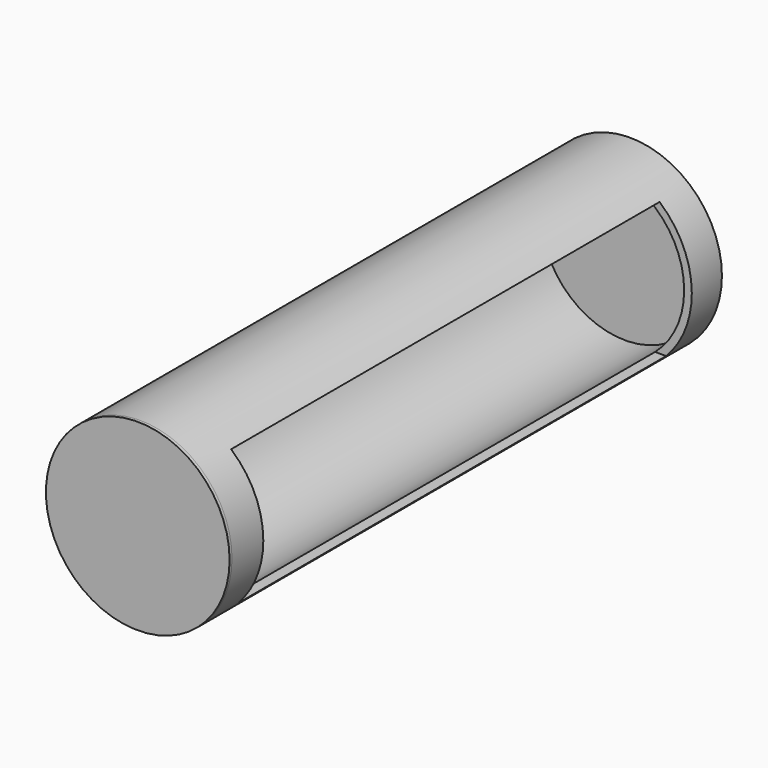
from build123d import *

# Parameters (mm, degrees)
F0_R      = 30
F1_DEPTH  = 200
F2_R      = 27.5
F3_DEPTH  = 200
F4_R      = 30
F5_DEPTH  = 2
F6_R      = 30
F6_R_2    = 27.5
F7_DEPTH  = 1
F8_W      = 20
F8_H      = 20
F9_DEPTH  = 67.5
F10_W     = 174.9420631677
F10_H     = 43.6072610319
F11_DEPTH = 173


with BuildPart() as f1:
    # F0 (on Front) → F1 (new body)
    with BuildSketch(Plane.XZ):
        Circle(F0_R)
    extrude(amount=F1_DEPTH)

    # F2 (on face) → F3 (cut, through all)
    with BuildSketch(Plane(origin=(0, 0, 0), x_dir=(-1, 0, 0), z_dir=(0, 1, 0))):
        Circle(F2_R)
    extrude(amount=-F3_DEPTH, mode=Mode.SUBTRACT)

    # F4 (on Front) → F5 (join)
    with BuildSketch(Plane.XZ):
        Circle(F4_R)
    extrude(amount=F5_DEPTH)

    # F8 (on Right) → F9 (cut)
    with BuildSketch(Plane.YZ):
        with Locations((-105.4523052443, 10)):
            Rectangle(F8_W, F8_H)
    extrude(amount=-F9_DEPTH, mode=Mode.SUBTRACT)

    # F10 (on Right) → F11 (cut)
    with BuildSketch(Plane.YZ):
        with Locations((-99.765769206, 1.0190196335)):
            Rectangle(F10_W, F10_H)
    extrude(amount=F11_DEPTH, mode=Mode.SUBTRACT)


with BuildPart() as f7:
    # F6 (on face) → F7 (new body)
    with BuildSketch(Plane.XZ.offset(200)):
        Circle(F6_R)
        Circle(F6_R_2, mode=Mode.SUBTRACT)
        Circle(F6_R_2)
    extrude(amount=F7_DEPTH)


solid = Compound([f1.part, f7.part])
